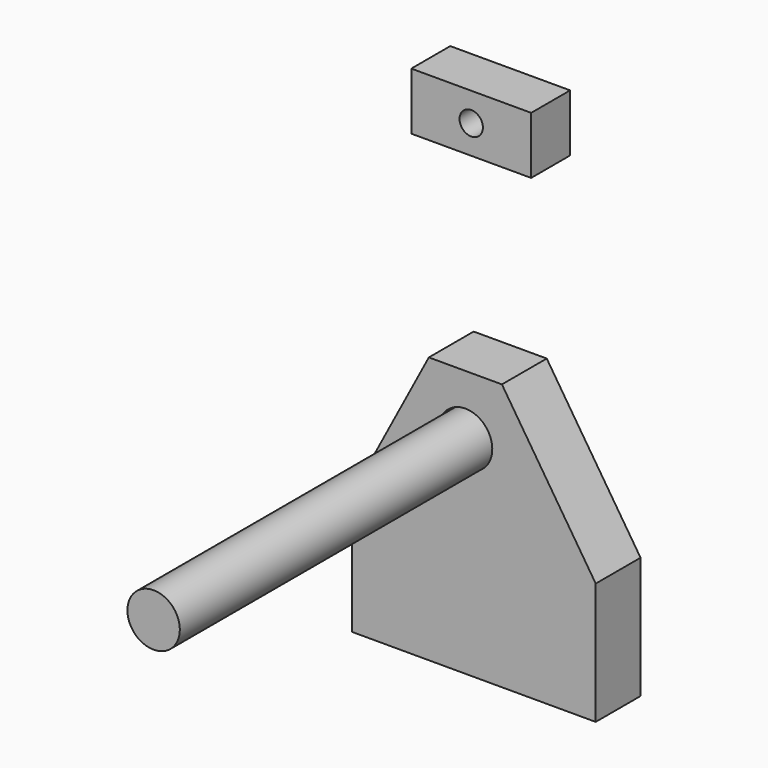
from build123d import *

# Parameters (mm, degrees)
F0_R     = 56.099534
F1_DEPTH = 116.84
F2_R     = 54.658774
F3_DEPTH = 929.64
F4_W     = 250
F4_H     = 119.508714
F4_R     = 24.343568
F5_DEPTH = 101.6


with BuildPart() as f1:
    # F0 (on Front) → F1 (new body)
    with BuildSketch(Plane.XZ):
        Polygon((-236.152576, 254), (-236.152576, 0), (271.847424, 0), (271.847424, 254), (76.2, 556.103408), (0, 556.103408), (-76.2, 556.103408), align=None)
        with Locations((0, 430.868447)):
            Circle(F0_R, mode=Mode.SUBTRACT)
    extrude(amount=F1_DEPTH)

    # F2 (on Front) → F3 (join)
    with BuildSketch(Plane.XZ):
        with Locations((0, 429.218203)):
            Circle(F2_R)
    extrude(amount=F3_DEPTH)


with BuildPart() as f5:
    # F4 (on Front) → F5 (new body)
    with BuildSketch(Plane.XZ):
        with Locations((0, 1004.608154)):
            Rectangle(F4_W, F4_H)
        with Locations((0, 1004.608154)):
            Circle(F4_R, mode=Mode.SUBTRACT)
    extrude(amount=F5_DEPTH)


solid = Compound([f1.part, f5.part])
